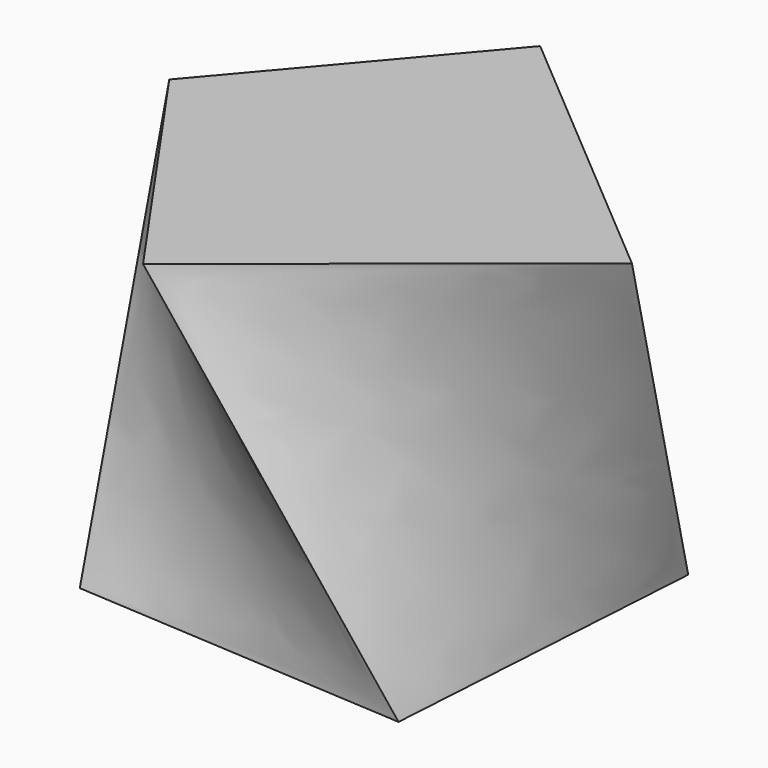
from build123d import *


with BuildPart() as f3:
    # F0 (on Top) → F3 section 0
    with BuildSketch(Plane.XY):
        Polygon((47.947705, 42.263936), (-42.263936, 47.947705), (-47.947705, -42.263936), (42.263936, -47.947705), align=None)
    # F2 (on offset) → F3 section 1
    with BuildSketch(Plane.XY.offset(100)):
        Polygon((-6.41246, 60.48115), (-57.71213, 0), (-9.618689, -68.933934), (70.301424, -4.587007), align=None)
    loft()


solid = f3.part
